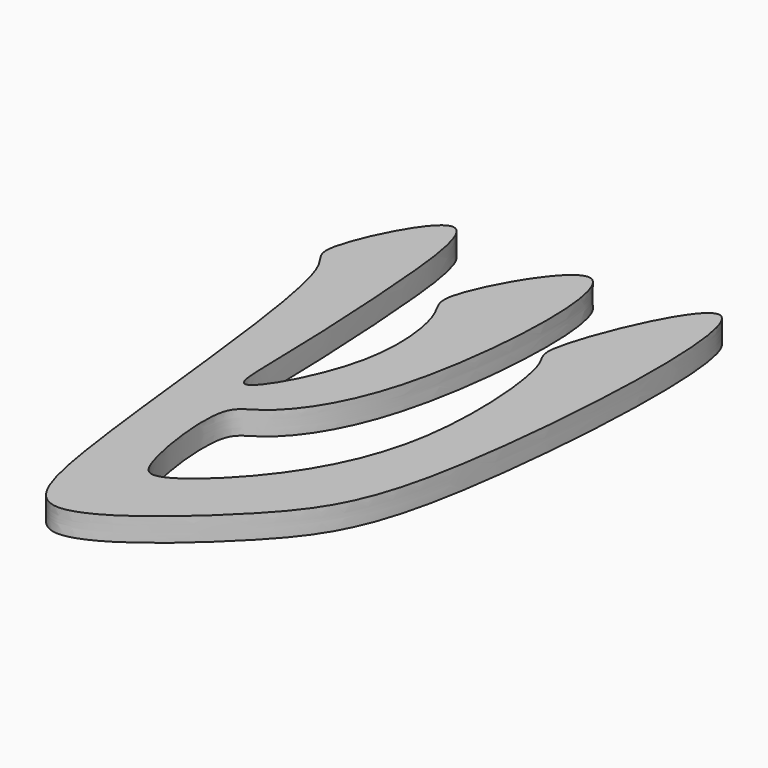
from build123d import *

# Parameters (mm, degrees)
F2_DEPTH = 1


with BuildPart() as f2:
    # F1 (on face) → F2 (new body)
    with BuildSketch(Plane.XY):
        with BuildLine():
            add(Edge.make_bspline(
                [(-4.8148701899, 52.8333671391), (-5.5658805743, 52.6445609146), (-7.5533565318, 48.553924897), (-5.6265997373, 48.1128099857), (-4.5792529615, 32.5246787323), (-2.8627961596, 27.2122005192), (3.797056136, 32.8814071545), (6.722000754, 37.3280074495), (7.8124609065, 59.566377592), (2.8757079853, 47.648186941), (4.0278939851, 47.1296746174), (4.6907925211, 39.8806390231), (1.855224939, 34.7667588988), (-1.2219259857, 32.1871252184), (-2.1232435004, 33.2249080001), (-2.7884674569, 37.9385608975), (-1.2099490828, 38.4048005313), (1.9156746301, 42.1392077567), (2.5505113427, 56.9715406572), (-2.1828884678, 48.6297664076), (-1.0863853542, 47.7293457705), (-0.359535829, 43.4795290526), (-3.2782247757, 38.3989181671), (-3.2876185887, 42.0478616792), (-3.5069172149, 48.0777143669), (-4.0817301166, 53.0176807147), (-4.8148701899, 52.8333671391)],
                knots=[0, 0, 0, 0, 0.0403144456, 0.0634668973, 0.1394020793, 0.1780368649, 0.2265335921, 0.2792942206, 0.3524012742, 0.3998251598, 0.4208741977, 0.4700230956, 0.5189205665, 0.5536270436, 0.5723570752, 0.6127469907, 0.633877322, 0.6778099455, 0.7384387383, 0.7806623333, 0.8027261838, 0.8427721241, 0.8821855408, 0.9079466446, 0.9606448376, 1, 1, 1, 1], degree=3))
        make_face()
    extrude(amount=F2_DEPTH)


solid = f2.part
